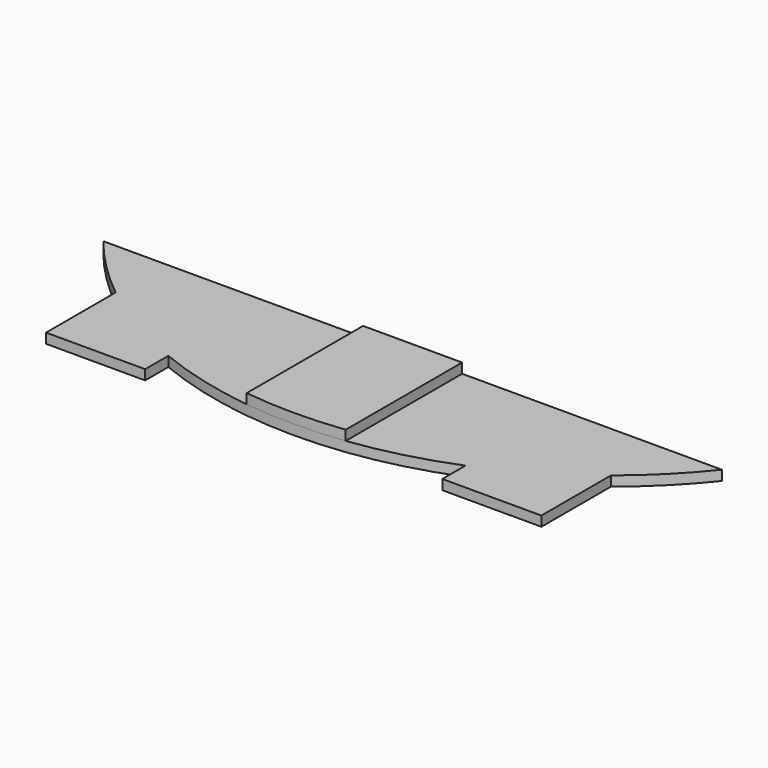
from build123d import *

# Parameters (mm, degrees)
F1_DEPTH = 1
F3_DEPTH = 1


with BuildPart() as f1:
    # F0 (on Top) → F1 (new body)
    with BuildSketch(Plane.XY):
        with BuildLine():
            Line((31.224989992, -25), (-31.224989992, -25))
            ThreePointArc((-31.224989992, -25), (-28.2842712475, -28.2842712475), (-25, -31.224989992))
            Line((-25, -31.224989992), (-25, -40))
            Line((-25, -40), (-15, -40))
            Line((-15, -40), (-15, -37.0809924355))
            ThreePointArc((-15, -37.0809924355), (0, -40), (15, -37.0809924355))
            Line((15, -37.0809924355), (15, -40))
            Line((15, -40), (25, -40))
            Line((25, -40), (25, -31.224989992))
            ThreePointArc((25, -31.224989992), (28.2842712475, -28.2842712475), (31.224989992, -25))
        make_face()
    extrude(amount=F1_DEPTH)

    # F2 (on face) → F3 (join)
    with BuildSketch(Plane.XY.offset(1)):
        with BuildLine():
            Line((5, -25), (-5, -25))
            Line((-5, -25), (-5, -39.686269666))
            ThreePointArc((-5, -39.686269666), (0, -40), (5, -39.686269666))
            Line((5, -39.686269666), (5, -25))
        make_face()
    extrude(amount=F3_DEPTH)


solid = f1.part
